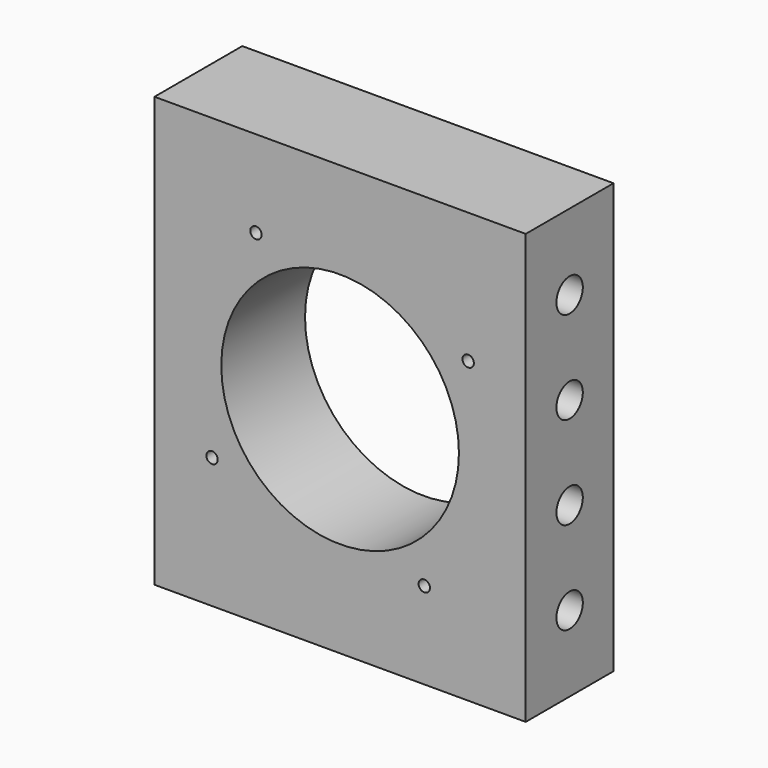
from build123d import *

# Parameters (mm, degrees)
F0_W     = 112.482
F0_H     = 130.175
F0_R     = 1.727
F0_R_2   = 36.003
F1_DEPTH = 33.25
F2_R     = 5
F3_DEPTH = 20
F4_R     = 5
F5_DEPTH = 20
F6_R     = 42.045
F7_DEPTH = 1.53


with BuildPart() as f1:
    # F0 (on Front) → F1 (new body)
    with BuildSketch(Plane.XZ):
        Rectangle(F0_W, F0_H)
        with Locations((-38.800708, -25.5)):
            Circle(F0_R, mode=Mode.SUBTRACT)
        with Locations((25.5, -38.800708)):
            Circle(F0_R, mode=Mode.SUBTRACT)
        with Locations((-25.5, 38.800708)):
            Circle(F0_R, mode=Mode.SUBTRACT)
        with Locations((0, 0)):
            Circle(F0_R_2, mode=Mode.SUBTRACT)
        with Locations((38.800708, 25.5)):
            Circle(F0_R, mode=Mode.SUBTRACT)
    extrude(amount=F1_DEPTH)

    # F2 (on face) → F3 (cut)
    with BuildSketch(Plane(origin=(-56.241, 0, 0), x_dir=(0, -1, 0), z_dir=(-1, 0, 0))):
        with Locations((16.625, 42.0525)):
            Circle(F2_R)
        with Locations((16.625, 14.0175)):
            Circle(F2_R)
        with Locations((16.625, -14.0175)):
            Circle(F2_R)
        with Locations((16.625, -42.0525)):
            Circle(F2_R)
    extrude(amount=-F3_DEPTH, mode=Mode.SUBTRACT)

    # F4 (on face) → F5 (cut)
    with BuildSketch(Plane.YZ.offset(56.241)):
        with Locations((-16.625, 42.0525)):
            Circle(F4_R)
        with Locations((-16.625, 14.0175)):
            Circle(F4_R)
        with Locations((-16.625, -14.0175)):
            Circle(F4_R)
        with Locations((-16.625, -42.0525)):
            Circle(F4_R)
    extrude(amount=-F5_DEPTH, mode=Mode.SUBTRACT)

    # F6 (on face) → F7 (cut)
    with BuildSketch(Plane(origin=(0, 0, 0), x_dir=(-1, 0, 0), z_dir=(0, 1, 0))):
        Circle(F6_R)
    extrude(amount=-F7_DEPTH, mode=Mode.SUBTRACT)


solid = f1.part
